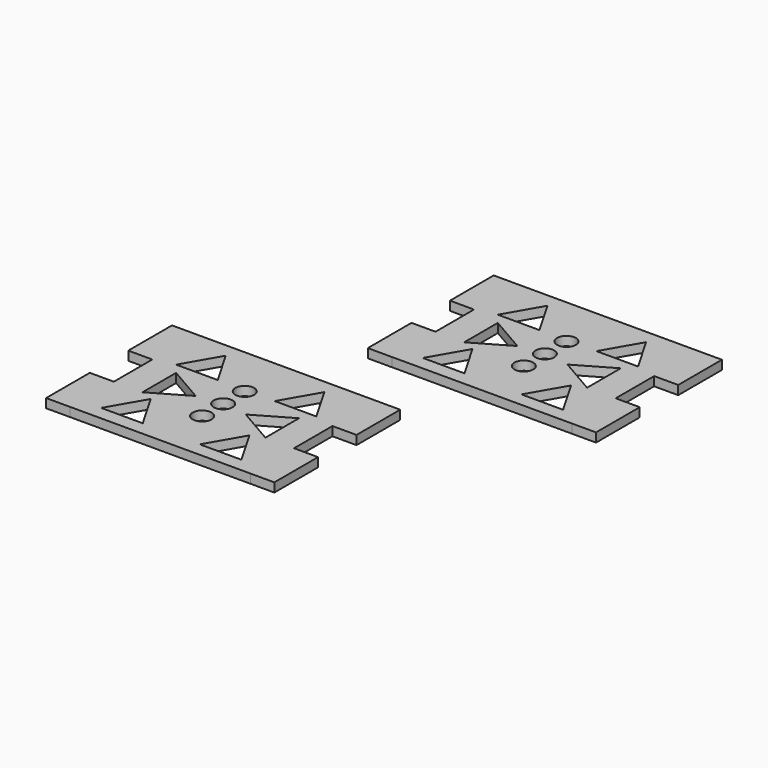
from build123d import *

# Parameters (mm, degrees)
F0_W     = 4
F0_H     = 9.1
F1_DEPTH = 1.5
F2_DEPTH = 1.5


with BuildPart() as f1:
    # F0 (on Top) → F1 (new body)
    with BuildSketch(Plane.XY):
        with Locations((-68.413132, 55.217268)):
            Rectangle(F0_W, F0_H)
        Polygon((-66.413132, 33.567268), (-66.413132, 42.665003), (-70.413132, 42.665003), (-70.413132, 33.565003), (-66.413132, 33.565003), align=None)
        with BuildLine():
            Line((-51.413132, 59.767268), (-66.413132, 59.767268))
            Line((-66.413132, 59.767268), (-66.413132, 50.667268))
            Line((-66.413132, 50.667268), (-66.413132, 42.665003))
            Line((-66.413132, 42.665003), (-66.413132, 33.567268))
            Line((-66.413132, 33.567268), (-51.413132, 33.567268))
            Line((-51.413132, 33.567268), (-51.413132, 40.729722))
            ThreePointArc((-51.413132, 40.729722), (-52.975632, 42.292222), (-51.413132, 43.854722))
            Line((-51.413132, 43.854722), (-51.413132, 45.105903))
            ThreePointArc((-51.413132, 45.105903), (-52.975632, 46.668403), (-51.413132, 48.230903))
            Line((-51.413132, 48.230903), (-51.413132, 49.600074))
            ThreePointArc((-51.413132, 49.600074), (-52.975632, 51.162574), (-51.413132, 52.725074))
            Line((-51.413132, 52.725074), (-51.413132, 59.767268))
        make_face()
        Polygon((-59.624343, 41.867268), (-56.160241, 35.867268), (-63.088444, 35.867268), align=None, mode=Mode.SUBTRACT)
        Polygon((-61.645069, 49.667268), (-55.582891, 46.167268), (-61.645069, 42.667268), align=None, mode=Mode.SUBTRACT)
        Polygon((-59.624343, 57.467268), (-56.160241, 51.467268), (-63.088444, 51.467268), align=None, mode=Mode.SUBTRACT)
        with BuildLine():
            Line((-36.413132, 59.767268), (-51.413132, 59.767268))
            Line((-51.413132, 59.767268), (-51.413132, 52.725074))
            ThreePointArc((-51.413132, 52.725074), (-49.850632, 51.162574), (-51.413132, 49.600074))
            Line((-51.413132, 49.600074), (-51.413132, 48.230903))
            ThreePointArc((-51.413132, 48.230903), (-49.850632, 46.668403), (-51.413132, 45.105903))
            Line((-51.413132, 45.105903), (-51.413132, 43.854722))
            ThreePointArc((-51.413132, 43.854722), (-49.850632, 42.292222), (-51.413132, 40.729722))
            Line((-51.413132, 40.729722), (-51.413132, 33.567268))
            Line((-51.413132, 33.567268), (-36.413132, 33.567268))
            Line((-36.413132, 33.567268), (-36.413132, 42.665003))
            Line((-36.413132, 42.665003), (-36.413132, 50.667268))
            Line((-36.413132, 50.667268), (-36.413132, 59.767268))
        make_face()
        Polygon((-43.20192, 41.867268), (-39.737819, 35.867268), (-46.666022, 35.867268), align=None, mode=Mode.SUBTRACT)
        Polygon((-41.181194, 49.667268), (-41.181194, 42.667268), (-47.243372, 46.167268), align=None, mode=Mode.SUBTRACT)
        Polygon((-43.20192, 57.467268), (-39.737819, 51.467268), (-46.666022, 51.467268), align=None, mode=Mode.SUBTRACT)
        Polygon((-32.413132, 42.665003), (-36.413132, 42.665003), (-36.413132, 33.567268), (-36.413132, 33.565003), (-32.413132, 33.565003), align=None)
        with Locations((-34.413132, 55.217268)):
            Rectangle(F0_W, F0_H)
    extrude(amount=F1_DEPTH)


with BuildPart() as f2:
    # F0 (on Top) → F2 (new body)
    with BuildSketch(Plane.XY):
        with Locations((-92.286137, 18.107755)):
            Rectangle(F0_W, F0_H)
        with BuildLine():
            Line((-75.286137, 22.657755), (-90.286137, 22.657755))
            Line((-90.286137, 22.657755), (-90.286137, 13.557755))
            Line((-90.286137, 13.557755), (-90.286137, 5.55549))
            Line((-90.286137, 5.55549), (-90.286137, -3.542245))
            Line((-90.286137, -3.542245), (-75.286137, -3.542245))
            Line((-75.286137, -3.542245), (-75.286137, 3.620208))
            ThreePointArc((-75.286137, 3.620208), (-76.848637, 5.182708), (-75.286137, 6.745208))
            Line((-75.286137, 6.745208), (-75.286137, 7.99639))
            ThreePointArc((-75.286137, 7.99639), (-76.848637, 9.55889), (-75.286137, 11.12139))
            Line((-75.286137, 11.12139), (-75.286137, 12.490561))
            ThreePointArc((-75.286137, 12.490561), (-76.848637, 14.053061), (-75.286137, 15.615561))
            Line((-75.286137, 15.615561), (-75.286137, 22.657755))
        make_face()
        Polygon((-83.497348, 4.757755), (-80.033246, -1.242245), (-86.961449, -1.242245), align=None, mode=Mode.SUBTRACT)
        Polygon((-85.518074, 12.557755), (-79.455896, 9.057755), (-85.518074, 5.557755), align=None, mode=Mode.SUBTRACT)
        Polygon((-83.497348, 20.357755), (-80.033246, 14.357755), (-86.961449, 14.357755), align=None, mode=Mode.SUBTRACT)
        Polygon((-90.286137, -3.542245), (-90.286137, 5.55549), (-94.286137, 5.55549), (-94.286137, -3.54451), (-90.286137, -3.54451), align=None)
        with BuildLine():
            Line((-60.286137, 22.657755), (-75.286137, 22.657755))
            Line((-75.286137, 22.657755), (-75.286137, 15.615561))
            ThreePointArc((-75.286137, 15.615561), (-73.723637, 14.053061), (-75.286137, 12.490561))
            Line((-75.286137, 12.490561), (-75.286137, 11.12139))
            ThreePointArc((-75.286137, 11.12139), (-73.723637, 9.55889), (-75.286137, 7.99639))
            Line((-75.286137, 7.99639), (-75.286137, 6.745208))
            ThreePointArc((-75.286137, 6.745208), (-73.723637, 5.182708), (-75.286137, 3.620208))
            Line((-75.286137, 3.620208), (-75.286137, -3.542245))
            Line((-75.286137, -3.542245), (-60.286137, -3.542245))
            Line((-60.286137, -3.542245), (-60.286137, 5.55549))
            Line((-60.286137, 5.55549), (-60.286137, 13.557755))
            Line((-60.286137, 13.557755), (-60.286137, 22.657755))
        make_face()
        Polygon((-67.074925, 4.757755), (-63.610824, -1.242245), (-70.539027, -1.242245), align=None, mode=Mode.SUBTRACT)
        Polygon((-65.054199, 12.557755), (-65.054199, 5.557755), (-71.116377, 9.057755), align=None, mode=Mode.SUBTRACT)
        Polygon((-67.074925, 20.357755), (-63.610824, 14.357755), (-70.539027, 14.357755), align=None, mode=Mode.SUBTRACT)
        Polygon((-56.286137, 5.55549), (-60.286137, 5.55549), (-60.286137, -3.542245), (-60.286137, -3.54451), (-56.286137, -3.54451), align=None)
        with Locations((-58.286137, 18.107755)):
            Rectangle(F0_W, F0_H)
    extrude(amount=F2_DEPTH)


solid = Compound([f1.part, f2.part])
